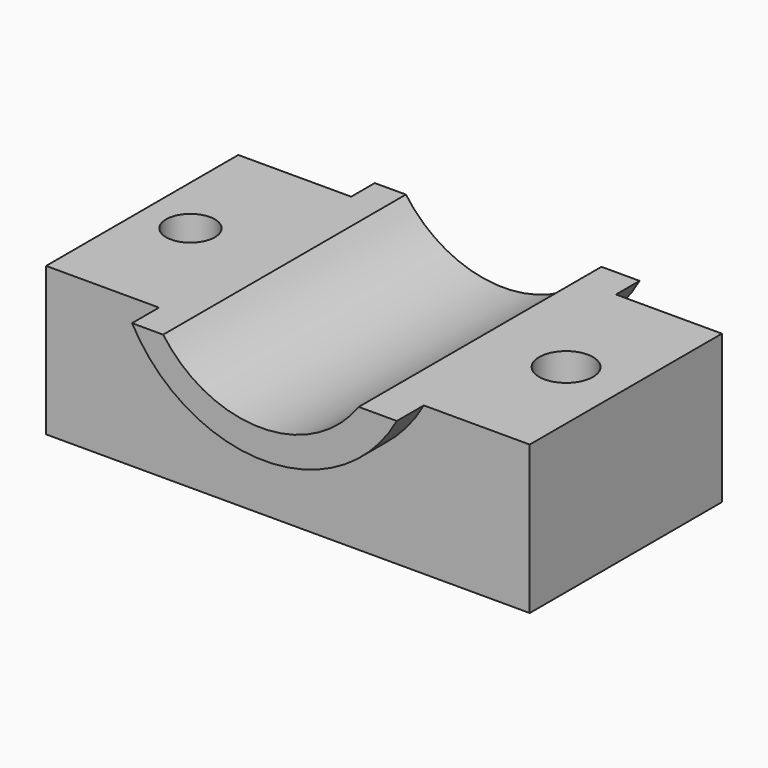
from build123d import *

# Parameters (mm, degrees)
F0_W          = 182.1884661913
F0_H          = 90.4913619161
F1_DEPTH      = 25.4
F2_DEPTH      = 30.48
F4_DEPTH      = 12.7
F4_DEPTH_BACK = 101.6
F5_DEPTH      = 101.601
F6_R          = 9.1731778598
F7_DEPTH      = 55.881
F8_R          = 10.143728711
F9_DEPTH      = 55.881


with BuildPart() as f1:
    # F0 (on Top) → F1 (new body)
    with BuildSketch(Plane.XY):
        Rectangle(F0_W, F0_H)
    extrude(amount=F1_DEPTH)

    # F2 (add): a face of the model
    f2_faces = [f1.faces().sort_by_distance(p)[0] for p in [
        (0, 0, 25.4),
    ]]
    extrude(f2_faces, amount=F2_DEPTH)

    # F3 (on face) → F4 (join, two sides)
    with BuildSketch(Plane.XZ.offset(45.245680958)) as f4_sk:
        with BuildLine():
            ThreePointArc((36.8356928229, 55.88), (-1.8626e-06, 36.9552895427), (-36.8356965482, 55.88))
            Line((-36.8356965482, 55.88), (-48.5561415553, 55.88))
            ThreePointArc((-48.5561415553, 55.88), (1.3155639172, 26.427666579), (51.1872693896, 55.88))
            Line((51.1872693896, 55.88), (36.8356928229, 55.88))
        make_face()
    extrude(amount=F4_DEPTH)
    extrude(f4_sk.sketch, amount=-F4_DEPTH_BACK)

    # F5 (cut, through all): a face of the model
    f5_faces = [f1.faces().sort_by_distance(p)[0] for p in [
        (-1.8626e-06, -45.245680958, 48.1558042876),
    ]]
    extrude(f5_faces, amount=-F5_DEPTH, mode=Mode.SUBTRACT)

    # F6 (on face) → F7 (cut, through all)
    with BuildSketch(Plane.XY.offset(55.88)):
        with Locations((-72.8940144181, 0)):
            Circle(F6_R)
    extrude(amount=-F7_DEPTH, mode=Mode.SUBTRACT)

    # F8 (on face) → F9 (cut, through all)
    with BuildSketch(Plane.XY.offset(55.88)):
        with Locations((68.5885474086, 0)):
            Circle(F8_R)
    extrude(amount=-F9_DEPTH, mode=Mode.SUBTRACT)


solid = f1.part
